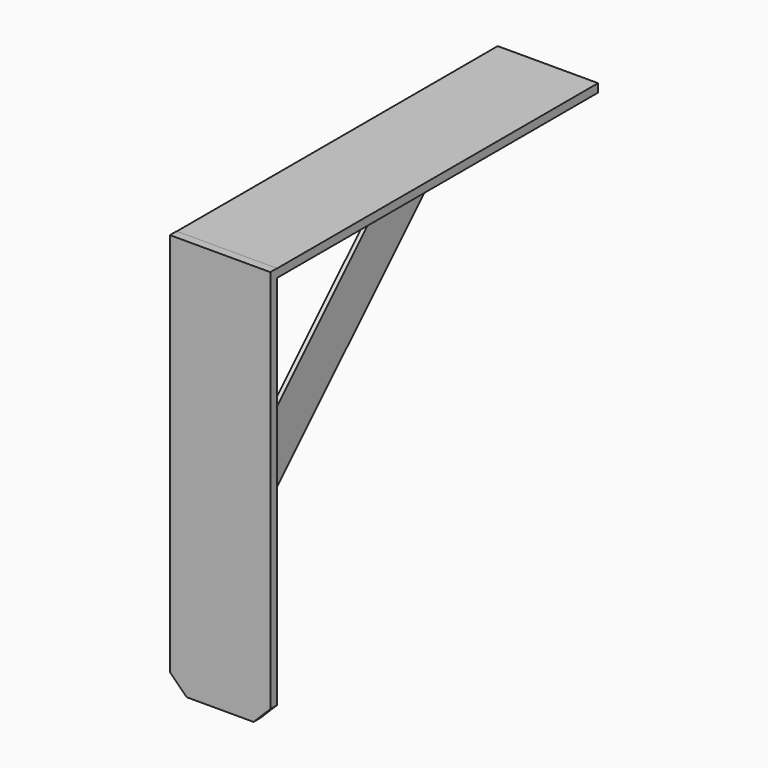
from build123d import *

# Parameters (mm, degrees)
F1_DEPTH = 6.35
F3_W     = 304.8
F3_H     = 6.35
F4_DEPTH = 76.2
F6_DEPTH = 3.175
F7_DEPTH = 3.175


with BuildPart() as f1:
    # F0 (on Front) → F1 (new body)
    with BuildSketch(Plane.XZ):
        Polygon((-25.4, -152.4), (25.4, -152.4), (38.1, -139.7), (38.1, 152.4), (-38.1, 152.4), (-38.1, -139.7), align=None)
    extrude(amount=F1_DEPTH)

    # F3 (on offset) → F4 (join)
    with BuildSketch(Plane.YZ.offset(38.1)):
        with Locations((152.4, 149.089498)):
            Rectangle(F3_W, F3_H)
    extrude(amount=-F4_DEPTH)

    # F5 (on Right) → F6 (join)
    with BuildSketch(Plane.YZ):
        Polygon((0, -66.648165), (212.562662, 145.914498), (158.681126, 145.914498), (0, -12.766628), align=None)
    extrude(amount=F6_DEPTH)

    # F5 (on Right) → F7 (join)
    with BuildSketch(Plane.YZ):
        Polygon((0, -66.648165), (212.562662, 145.914498), (158.681126, 145.914498), (0, -12.766628), align=None)
    extrude(amount=F7_DEPTH)


solid = f1.part
